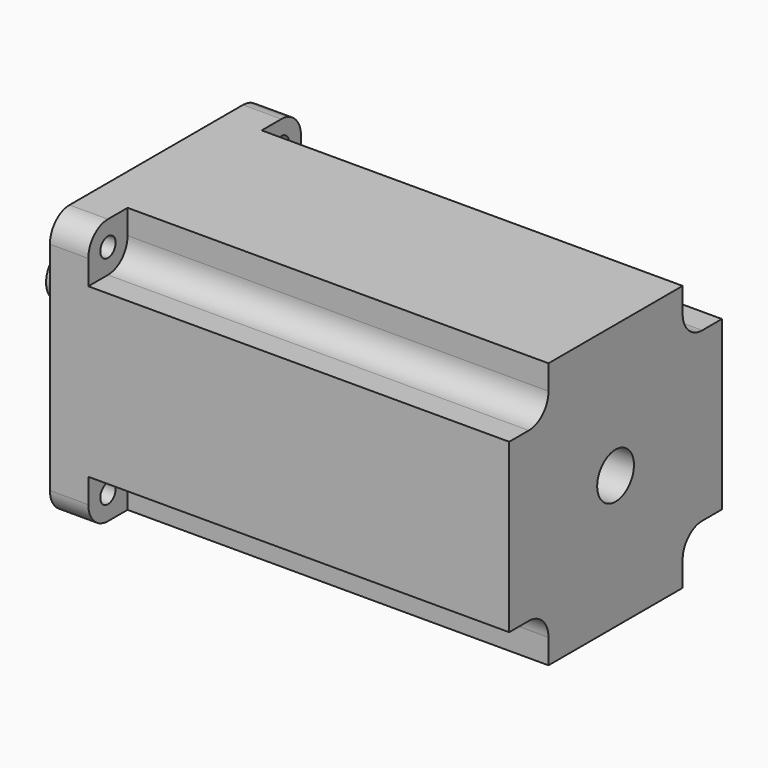
from build123d import *

# Parameters (mm, degrees)
F0_R     = 9.5
F1_DEPTH = 38
F0_R_2   = 43
F2_DEPTH = 4.75
F3_DEPTH = 190
F0_R_3   = 3.96875
F4_DEPTH = 15.875


with BuildPart() as f1:
    # F0 (on Right) → F1 (new body)
    with BuildSketch(Plane.YZ):
        Circle(F0_R)
    extrude(amount=-F1_DEPTH)

    # F0 (on Right) → F2 (join)
    with BuildSketch(Plane.YZ):
        Circle(F0_R_2)
        Circle(F0_R, mode=Mode.SUBTRACT)
    extrude(amount=-F2_DEPTH)

    # F0 (on Right) → F3 (join)
    with BuildSketch(Plane.YZ):
        with BuildLine():
            Line((-34.68, -55), (34.68, -55))
            Line((34.68, -55), (34.68, -44.84))
            ThreePointArc((34.68, -44.84), (37.6557951031, -37.6557951031), (44.84, -34.68))
            Line((44.84, -34.68), (55, -34.68))
            Line((55, -34.68), (55, 34.68))
            Line((55, 34.68), (44.84, 34.68))
            ThreePointArc((44.84, 34.68), (37.6557951031, 37.6557951031), (34.68, 44.84))
            Line((34.68, 44.84), (34.68, 55))
            Line((34.68, 55), (-34.68, 55))
            Line((-34.68, 55), (-34.68, 44.84))
            ThreePointArc((-34.68, 44.84), (-37.6557951031, 37.6557951031), (-44.84, 34.68))
            Line((-44.84, 34.68), (-55, 34.68))
            Line((-55, 34.68), (-55, -34.68))
            Line((-55, -34.68), (-44.84, -34.68))
            ThreePointArc((-44.84, -34.68), (-37.6557951031, -37.6557951031), (-34.68, -44.84))
            Line((-34.68, -44.84), (-34.68, -55))
        make_face()
        Circle(F0_R_2, mode=Mode.SUBTRACT)
        Circle(F0_R_2)
        Circle(F0_R, mode=Mode.SUBTRACT)
    extrude(amount=F3_DEPTH)

    # F0 (on Right) → F4 (join)
    with BuildSketch(Plane.YZ):
        with BuildLine():
            Line((-55, 44.84), (-55, 34.68))
            Line((-55, 34.68), (-44.84, 34.68))
            ThreePointArc((-44.84, 34.68), (-37.6557951031, 37.6557951031), (-34.68, 44.84))
            Line((-34.68, 44.84), (-34.68, 55))
            Line((-34.68, 55), (-44.84, 55))
            ThreePointArc((-44.84, 55), (-52.0242048969, 52.0242048969), (-55, 44.84))
        make_face()
        with Locations((-44.84, 44.84)):
            Circle(F0_R_3, mode=Mode.SUBTRACT)
        with BuildLine():
            Line((44.84, 34.68), (55, 34.68))
            Line((55, 34.68), (55, 44.84))
            ThreePointArc((55, 44.84), (52.0242048969, 52.0242048969), (44.84, 55))
            Line((44.84, 55), (34.68, 55))
            Line((34.68, 55), (34.68, 44.84))
            ThreePointArc((34.68, 44.84), (37.6557951031, 37.6557951031), (44.84, 34.68))
        make_face()
        with Locations((44.84, 44.84)):
            Circle(F0_R_3, mode=Mode.SUBTRACT)
        with BuildLine():
            Line((34.68, -55), (44.84, -55))
            ThreePointArc((44.84, -55), (52.0242048969, -52.0242048969), (55, -44.84))
            Line((55, -44.84), (55, -34.68))
            Line((55, -34.68), (44.84, -34.68))
            ThreePointArc((44.84, -34.68), (37.6557951031, -37.6557951031), (34.68, -44.84))
            Line((34.68, -44.84), (34.68, -55))
        make_face()
        with Locations((44.84, -44.84)):
            Circle(F0_R_3, mode=Mode.SUBTRACT)
        with BuildLine():
            Line((-44.84, -55), (-34.68, -55))
            Line((-34.68, -55), (-34.68, -44.84))
            ThreePointArc((-34.68, -44.84), (-37.6557951031, -37.6557951031), (-44.84, -34.68))
            Line((-44.84, -34.68), (-55, -34.68))
            Line((-55, -34.68), (-55, -44.84))
            ThreePointArc((-55, -44.84), (-52.0242048969, -52.0242048969), (-44.84, -55))
        make_face()
        with Locations((-44.84, -44.84)):
            Circle(F0_R_3, mode=Mode.SUBTRACT)
    extrude(amount=F4_DEPTH)


solid = f1.part
